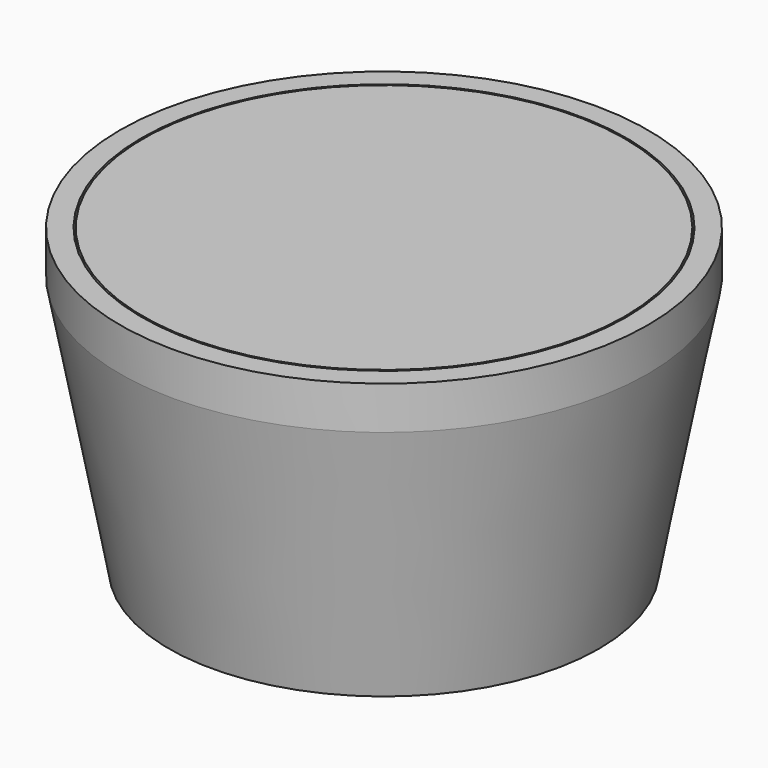
from build123d import *

# Parameters (mm, degrees)
F2_R     = 17.78
F3_DEPTH = 3.175


with BuildPart() as f1:
    # F0 (on Front) → F1 (revolve)
    with BuildSketch(Plane.XZ):
        Polygon((16.3195, 19.05), (12.7, 0), (15.875, 0), (19.4945, 19.05), (19.4945, 22.225), (17.907, 22.225), (17.907, 19.05), align=None)
    revolve(axis=Axis((0, 0, 21.704956), (0, 0, -1)))


with BuildPart() as f3:
    # F2 (on face) → F3 (new body, through all)
    with BuildSketch(Plane.XY.offset(22.225)):
        Circle(F2_R)
    extrude(amount=-F3_DEPTH)


solid = Compound([f1.part, f3.part])
